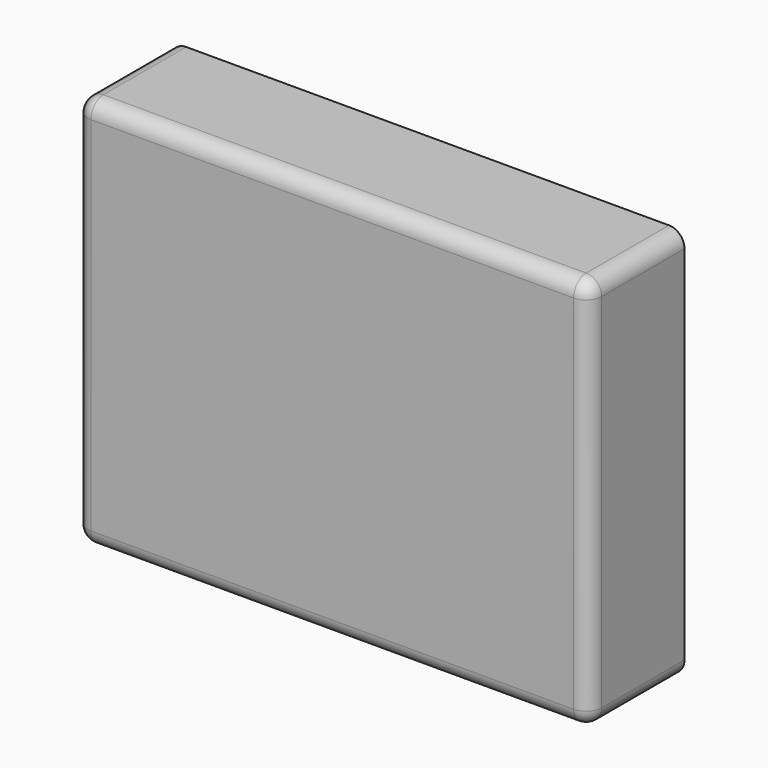
from build123d import *

# Parameters (mm, degrees)
SKETCH_W    = 108.4
SKETCH_H    = 81.3
PAD_DEPTH   = 23.25
THICKNESS_T = 3.5


with BuildPart() as part:
    # Sketch → Pad (new body)
    with BuildSketch(Plane.XZ):
        Rectangle(SKETCH_W, SKETCH_H)
    extrude(amount=PAD_DEPTH)

    # Thickness
    thickness_openings = [part.faces().sort_by_distance(p)[0] for p in [
        (0, 0, 0),
    ]]
    offset(amount=THICKNESS_T, openings=thickness_openings)


solid = part.part
